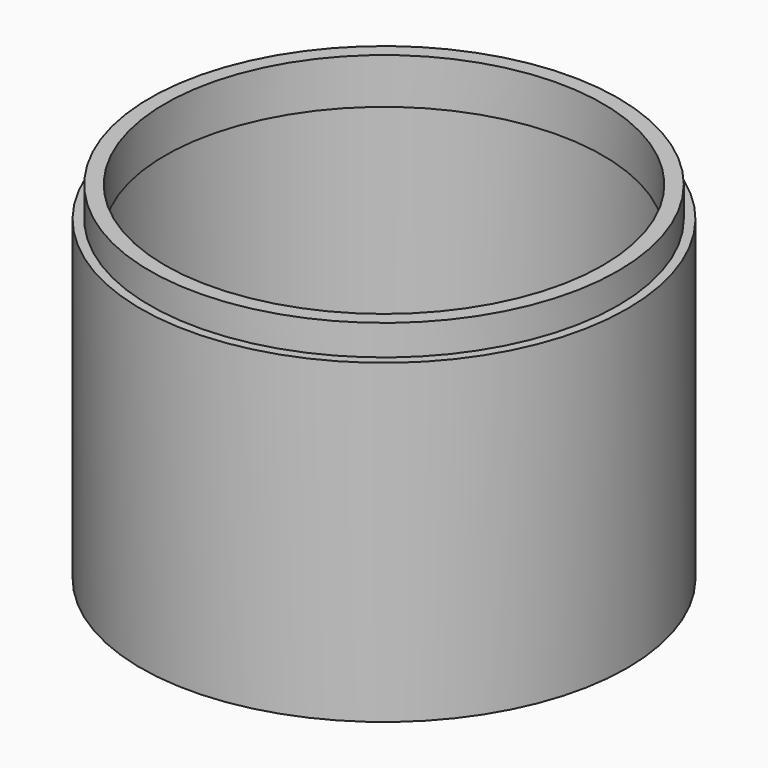
from build123d import *

# Parameters (mm, degrees)
F0_R      = 40
F1_DEPTH  = 2
F2_R      = 38.5
F3_DEPTH  = 5
F4_R      = 40
F5_DEPTH  = 50
F7_T      = -2.5
F6_R      = 20
F8_DEPTH  = 10
F9_R      = 2.9
F10_DEPTH = 67.001


with BuildPart() as f1:
    # F0 (on Top) → F1 (new body)
    with BuildSketch(Plane.XY):
        Circle(F0_R)
    extrude(amount=F1_DEPTH)

    # F2 (on face) → F3 (join)
    with BuildSketch(Plane.XY.offset(2)):
        Circle(F2_R)
    extrude(amount=F3_DEPTH)

    # F4 (on face) → F5 (join)
    with BuildSketch(Plane(origin=(0, 0, 0), x_dir=(1, 0, 0), z_dir=(0, 0, -1))):
        Circle(F4_R)
    extrude(amount=F5_DEPTH)

    # F7
    f7_openings = [f1.faces().sort_by_distance(p)[0] for p in [
        (0, 0, 7),
    ]]
    offset(amount=F7_T, openings=f7_openings, kind=Kind.INTERSECTION)

    # F6 (on face) → F8 (join)
    with BuildSketch(Plane(origin=(0, 0, -50), x_dir=(1, 0, 0), z_dir=(0, 0, -1))):
        Circle(F6_R)
    extrude(amount=F8_DEPTH)

    # F9 (on face) → F10 (cut, through all)
    with BuildSketch(Plane(origin=(0, 0, -60), x_dir=(1, 0, 0), z_dir=(0, 0, -1))):
        Circle(F9_R)
    extrude(amount=-F10_DEPTH, mode=Mode.SUBTRACT)


solid = f1.part
